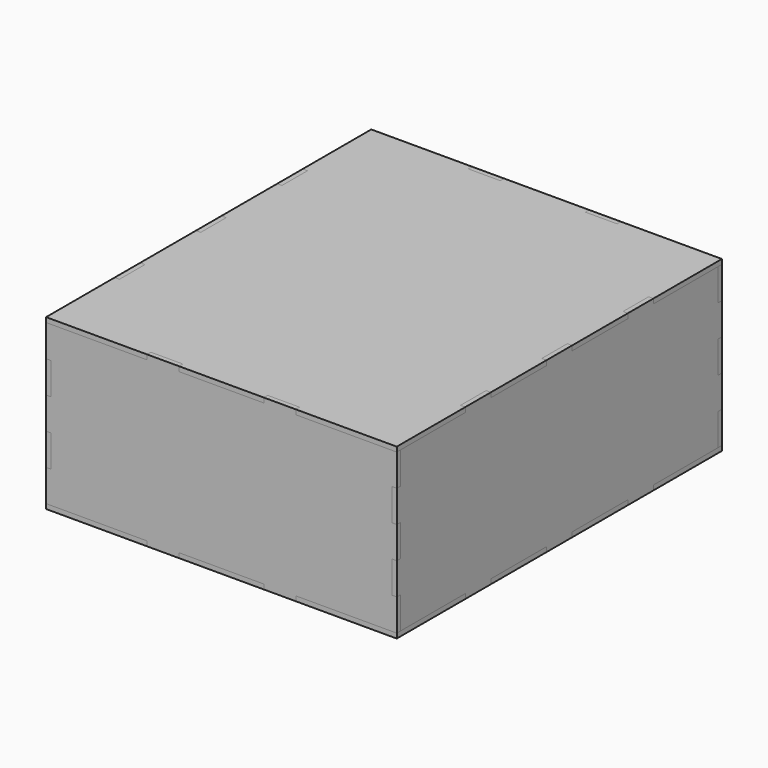
from build123d import *

# Parameters (mm, degrees)
F1_R      = 1.75
F1_R_2    = 2.5
F2_DEPTH  = 3
F4_DEPTH  = 3
F6_DEPTH  = 3
F10_DEPTH = 3


with BuildPart() as f2:
    # F1 (on Top) → F2 (new body)
    with BuildSketch(Plane.XY):
        Polygon((46.666666667, -127.5), (110, -127.5), (110, -79.5), (110, -73.75), (107, -73.75), (107, -53.75), (110, -53.75), (110, -10), (107, -10), (107, 10), (110, 10), (110, 37.5), (110, 53.75), (107, 53.75), (107, 73.75), (110, 73.75), (110, 127.5), (46.666666667, 127.5), (46.666666667, 124.5), (26.666666667, 124.5), (26.666666667, 127.5), (-26.6666666667, 127.5), (-26.6666666667, 124.5), (-46.6666666667, 124.5), (-46.6666666667, 127.5), (-110, 127.5), (-110, 73.75), (-107, 73.75), (-107, 53.75), (-110, 53.75), (-110, 10), (-107, 10), (-107, -10), (-110, -10), (-110, -53.75), (-107, -53.75), (-107, -73.75), (-110, -73.75), (-110, -127.5), (-46.6666666667, -127.5), (-46.6666666667, -124.5), (-26.6666666667, -124.5), (-26.6666666667, -127.5), (26.666666667, -127.5), (26.666666667, -124.5), (46.666666667, -124.5), align=None)
        with Locations((-103.5, -118.5)):
            Circle(F1_R, mode=Mode.SUBTRACT)
        with Locations((-9, -120.5)):
            Circle(F1_R_2, mode=Mode.SUBTRACT)
        with Locations((32.5, -118.5)):
            Circle(F1_R, mode=Mode.SUBTRACT)
        with Locations((103.5, -118.5)):
            Circle(F1_R, mode=Mode.SUBTRACT)
        with BuildLine():
            Line((98, -95.5), (29, -95.5))
            ThreePointArc((29, -95.5), (27.5857864376, -94.9142135624), (27, -93.5))
            Line((27, -93.5), (27, -85))
            ThreePointArc((27, -85), (27.5857864376, -83.5857864376), (29, -83))
            Line((29, -83), (98, -83))
            ThreePointArc((98, -83), (99.4142135624, -83.5857864376), (100, -85))
            Line((100, -85), (100, -93.5))
            ThreePointArc((100, -93.5), (99.4142135624, -94.9142135624), (98, -95.5))
        make_face(mode=Mode.SUBTRACT)
        with BuildLine():
            Line((81, -49.5), (-73, -49.5))
            ThreePointArc((-73, -49.5), (-75.1213203436, -48.6213203436), (-76, -46.5))
            Line((-76, -46.5), (-76, -27.5))
            ThreePointArc((-76, -27.5), (-75.1213203436, -25.3786796564), (-73, -24.5))
            Line((-73, -24.5), (81, -24.5))
            ThreePointArc((81, -24.5), (83.1213203436, -25.3786796564), (84, -27.5))
            Line((84, -27.5), (84, -46.5))
            ThreePointArc((84, -46.5), (83.1213203436, -48.6213203436), (81, -49.5))
        make_face(mode=Mode.SUBTRACT)
        with Locations((-72, 35.5)):
            Circle(F1_R, mode=Mode.SUBTRACT)
        with Locations((72, 35.5)):
            Circle(F1_R, mode=Mode.SUBTRACT)
    extrude(amount=F2_DEPTH)


with BuildPart() as f4:
    # F3 (on face) → F4 (new body)
    with BuildSketch(Plane.XZ.offset(127.5)):
        Polygon((-110, 23), (-110, 3), (-46.6666666667, 3), (-46.6666666667, 0), (-26.6666666667, 0), (-26.6666666667, 3), (26.6666666667, 3), (26.6666666667, 0), (46.6666666667, 0), (46.6666666667, 3), (110, 3), (110, 23), (107, 23), (107, 43), (110, 43), (110, 63), (107, 63), (107, 83), (110, 83), (110, 103), (46.6666666667, 103), (46.6666666667, 106), (26.6666666667, 106), (26.6666666667, 103), (-26.6666666667, 103), (-26.6666666667, 106), (-46.6666666667, 106), (-46.6666666667, 103), (-110, 103), (-110, 83), (-107, 83), (-107, 63), (-110, 63), (-110, 43), (-107, 43), (-107, 23), align=None)
    extrude(amount=-F4_DEPTH)


with BuildPart() as f6:
    # F5 (on face) → F6 (new body)
    with BuildSketch(Plane.YZ.offset(110)):
        Polygon((-124.5, 23), (-124.5, 3), (-73.75, 3), (-73.75, 0), (-53.75, 0), (-53.75, 3), (-10, 3), (-10, 0), (10, 0), (10, 3), (53.75, 3), (53.75, 0), (73.75, 0), (73.75, 3), (124.5, 3), (124.5, 23), (127.5, 23), (127.5, 43), (124.5, 43), (124.5, 63), (127.5, 63), (127.5, 83), (124.5, 83), (124.5, 103), (73.75, 103), (73.75, 106), (53.75, 106), (53.75, 103), (10, 103), (10, 106), (-10, 106), (-10, 103), (-53.75, 103), (-53.75, 106), (-73.75, 106), (-73.75, 103), (-124.5, 103), (-124.5, 83), (-127.5, 83), (-127.5, 63), (-124.5, 63), (-124.5, 43), (-127.5, 43), (-127.5, 23), align=None)
    extrude(amount=-F6_DEPTH)


with BuildPart() as f7_1:
    # F7: instance of F4
    add(f4.part.mirror(Plane.XZ))


with BuildPart() as f8_1:
    # F8: instance of F6
    add(f6.part.mirror(Plane.YZ))


with BuildPart() as f10:
    # F9 (on face) → F10 (new body)
    with BuildSketch(Plane.XY.offset(106)):
        Polygon((-110, -73.75), (-110, -127.5), (-46.6666666667, -127.5), (-46.6666666667, -124.5), (-26.6666666667, -124.5), (-26.6666666667, -127.5), (26.6666666666, -127.5), (26.6666666666, -124.5), (46.6666666666, -124.5), (46.6666666666, -127.5), (110, -127.5), (110, -73.75), (107, -73.75), (107, -53.75), (110, -53.75), (110, -10), (107, -10), (107, 10), (110, 10), (110, 53.75), (107, 53.75), (107, 73.75), (110, 73.75), (110, 127.5), (46.6666666666, 127.5), (46.6666666666, 124.5), (26.6666666666, 124.5), (26.6666666666, 127.5), (-26.6666666667, 127.5), (-26.6666666667, 124.5), (-46.6666666667, 124.5), (-46.6666666667, 127.5), (-110, 127.5), (-110, 73.75), (-107, 73.75), (-107, 53.75), (-110, 53.75), (-110, 10), (-107, 10), (-107, -10), (-110, -10), (-110, -53.75), (-107, -53.75), (-107, -73.75), align=None)
    extrude(amount=-F10_DEPTH)


solid = Compound([f2.part, f4.part, f6.part, f7_1.part, f8_1.part, f10.part])
